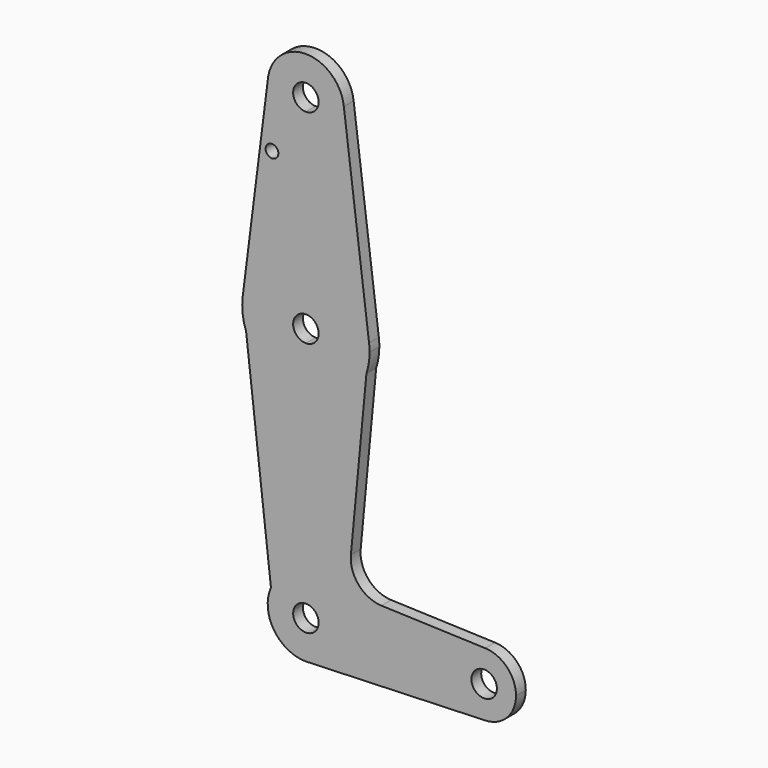
from build123d import *

# Parameters (mm, degrees)
F0_R     = 1.5875
F1_DEPTH = 3.048


with BuildPart() as f1:
    # F0 (on Front) → F1 (new body)
    with BuildSketch(Plane.XZ):
        with BuildLine():
            ThreePointArc((0, 104.775), (6.7351920908, 107.5648079092), (9.525, 114.3))
            ThreePointArc((9.525, 114.3), (9.5105006239, 114.8253597658), (9.4670466386, 115.3491200798))
            ThreePointArc((9.4670466386, 115.3491200798), (0.2693301382, 123.8211914316), (-9.3926016943, 115.882611264))
            Line((-9.3926016943, 115.882611264), (-9.49137355, 115.0996581358))
            ThreePointArc((-9.49137355, 115.0996581358), (-7.0122167944, 107.8537266093), (0, 104.775))
        make_face()
        with BuildLine():
            ThreePointArc((3.175, 114.3), (2.2450640303, 112.0549359697), (0, 111.125))
            ThreePointArc((0, 111.125), (-2.2450640303, 116.5450640303), (3.175, 114.3))
        make_face(mode=Mode.SUBTRACT)
        with BuildLine():
            ThreePointArc((9.4670466386, 115.3491200798), (9.5105006239, 114.8253597658), (9.525, 114.3))
            ThreePointArc((9.525, 114.3), (6.7351920908, 107.5648079092), (0, 104.775))
            Line((0, 104.775), (0, 79.375))
            ThreePointArc((0, 79.375), (10.4880956143, 75.417024635), (15.7463803088, 65.5167134946))
            Line((15.7463803088, 65.5167134946), (9.4670466386, 115.3491200798))
        make_face()
        with BuildLine():
            Line((0, 79.375), (0, 104.775))
            ThreePointArc((0, 104.775), (-7.0122167944, 107.8537266093), (-9.49137355, 115.0996581358))
            Line((-9.49137355, 115.0996581358), (-15.7501661141, 65.4869301023))
            ThreePointArc((-15.7501661141, 65.4869301023), (-10.4993597107, 75.4071016583), (0, 79.375))
        make_face()
        with Locations((-8.4545435384, 99.7462198138)):
            Circle(F0_R, mode=Mode.SUBTRACT)
        with BuildLine():
            Line((-9.49137355, 115.0996581358), (-9.3926016943, 115.882611264))
            ThreePointArc((-9.3926016943, 115.882611264), (-9.4500996903, 115.4921580614), (-9.49137355, 115.0996581358))
        make_face()
        with BuildLine():
            Line((15.0916679969, 58.5748418125), (15.7463803088, 65.5167134946))
            ThreePointArc((15.7463803088, 65.5167134946), (10.4880956143, 75.417024635), (0, 79.375))
            Line((0, 79.375), (0, 66.675))
            ThreePointArc((0, 66.675), (2.2450640538, 65.7450640431), (3.1750000364, 63.5))
            ThreePointArc((3.1750000364, 63.5), (2.2450640538, 61.2549359569), (0, 60.325))
            Line((0, 60.325), (0, 47.625))
            ThreePointArc((0, 47.625), (9.322787662, 50.6508266457), (15.0916679969, 58.5748418125))
        make_face()
        with BuildLine():
            ThreePointArc((15.8750000364, 63.5), (15.8428124734, 64.510405408), (15.7463803088, 65.5167134946))
            Line((15.7463803088, 65.5167134946), (15.0916679969, 58.5748418125))
            ThreePointArc((15.0916679969, 58.5748418125), (15.6779440004, 61.0064687562), (15.8750000364, 63.5))
        make_face()
        with BuildLine():
            Line((0, 66.675), (0, 79.375))
            ThreePointArc((0, 79.375), (-10.4993597107, 75.4071016583), (-15.7501661141, 65.4869301023))
            Line((-15.7501661141, 65.4869301023), (-14.8966948367, 58.0132790434))
            ThreePointArc((-14.8966948367, 58.0132790434), (-9.0805817279, 50.4785308117), (0, 47.625))
            Line((0, 47.625), (0, 60.325))
            ThreePointArc((0, 60.325), (-3.1749999636, 63.5), (0, 66.675))
        make_face()
        with BuildLine():
            Line((11.2220401565, 17.5454317378), (15.0916679969, 58.5748418125))
            ThreePointArc((15.0916679969, 58.5748418125), (9.322787662, 50.6508266457), (0, 47.625))
            Line((0, 47.625), (0, 9.525))
            ThreePointArc((0, 9.525), (6.7351920908, 6.7351920908), (9.525, 0))
            Line((9.525, 0), (36.5125, 0))
            ThreePointArc((36.5125, 0), (38.9380895153, 5.7116327839), (44.7324052746, 7.9324746146))
            Line((44.7324052746, 7.9324746146), (18.8542585168, 8.8537665816))
            ThreePointArc((18.8542585168, 8.8537665816), (13.1631901674, 11.5531830197), (11.2220401565, 17.5454317378))
        make_face()
        with BuildLine():
            Line((-14.8966948367, 58.0132790434), (-15.7501661141, 65.4869301023))
            ThreePointArc((-15.7501661141, 65.4869301023), (-15.7724882799, 61.6988233537), (-14.8966948367, 58.0132790434))
        make_face()
        with BuildLine():
            Line((0, 9.525), (0, 47.625))
            ThreePointArc((0, 47.625), (-9.0805817279, 50.4785308117), (-14.8966948367, 58.0132790434))
            Line((-14.8966948367, 58.0132790434), (-8.7115652612, 3.8515264116))
            ThreePointArc((-8.7115652612, 3.8515264116), (-5.1980686764, 7.9815854963), (0, 9.525))
        make_face()
        with BuildLine():
            Line((0, 3.175), (0, 9.525))
            ThreePointArc((0, 9.525), (-5.1980686764, 7.9815854963), (-8.7115652612, 3.8515264116))
            ThreePointArc((-8.7115652612, 3.8515264116), (-7.9815854963, -5.1980686764), (0, -9.525))
            Line((0, -9.525), (0.6773435479, -9.500885786))
            ThreePointArc((0.6773435479, -9.500885786), (6.9705567315, -6.4912990883), (9.525, 0))
            Line((9.525, 0), (3.175, 0))
            ThreePointArc((3.175, 0), (-2.2450640303, -2.2450640303), (0, 3.175))
        make_face()
        with BuildLine():
            Line((36.5125, 0), (9.525, 0))
            ThreePointArc((9.525, 0), (6.9705567315, -6.4912990883), (0.6773435479, -9.500885786))
            Line((0.6773435479, -9.500885786), (44.7324052746, -7.9324746146))
            ThreePointArc((44.7324052746, -7.9324746146), (38.9380895153, -5.7116327839), (36.5125, 0))
        make_face()
        with BuildLine():
            ThreePointArc((52.3875, 0), (50.1616327839, 5.5119104847), (44.7324052746, 7.9324746146))
            ThreePointArc((44.7324052746, 7.9324746146), (38.9380895153, 5.7116327839), (36.5125, 0))
            ThreePointArc((36.5125, 0), (38.9380895153, -5.7116327839), (44.7324052746, -7.9324746146))
            ThreePointArc((44.7324052746, -7.9324746146), (50.1616327839, -5.5119104847), (52.3875, 0))
        make_face()
        with BuildLine():
            ThreePointArc((47.625, 0), (44.45, -3.175), (41.275, 0))
            ThreePointArc((41.275, 0), (44.45, 3.175), (47.625, 0))
        make_face(mode=Mode.SUBTRACT)
        with BuildLine():
            Line((0.6773435479, -9.500885786), (0, -9.525))
            ThreePointArc((0, -9.525), (0.3388863295, -9.5189695375), (0.6773435479, -9.500885786))
        make_face()
        with BuildLine():
            ThreePointArc((9.525, 0), (6.7351920908, 6.7351920908), (0, 9.525))
            Line((0, 9.525), (0, 3.175))
            ThreePointArc((0, 3.175), (2.2450640303, 2.2450640303), (3.175, 0))
            Line((3.175, 0), (9.525, 0))
        make_face()
    extrude(amount=F1_DEPTH)


solid = f1.part
